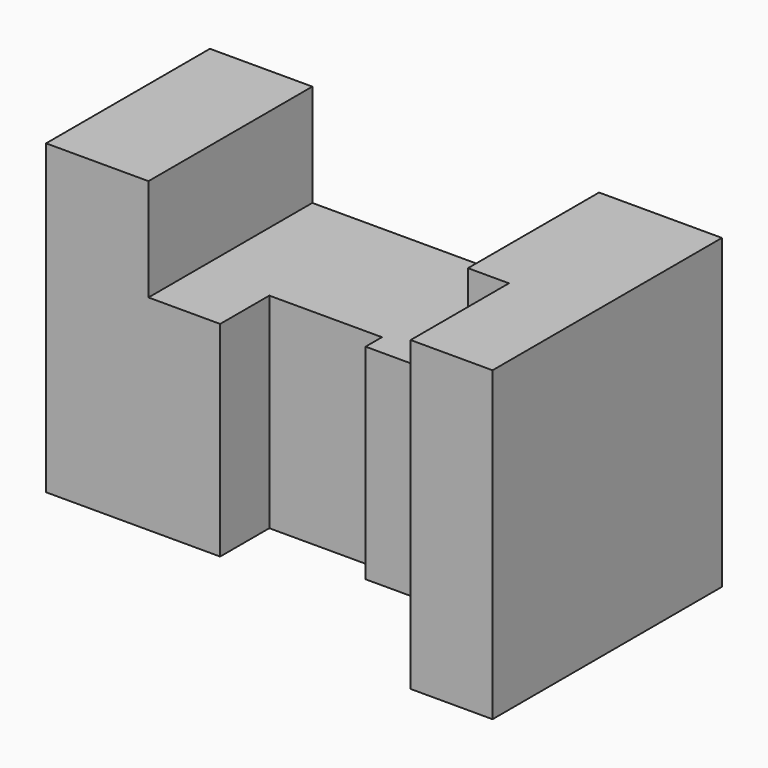
from build123d import *

# Parameters (mm, degrees)
F1_DEPTH = 75
F2_W     = 70
F2_H     = 25
F3_DEPTH = 70.001


with BuildPart() as f1:
    # F0 (on Top) → F1 (new body)
    with BuildSketch(Plane.XY):
        Polygon((125, 0), (125, 70), (0, 70), (0, 20), (42.5, 20), (42.5, 35), (70, 35), (70, 30), (105, 30), (105, 0), align=None)
    extrude(amount=F1_DEPTH)

    # F2 (on face) → F3 (cut, through all)
    with BuildSketch(Plane(origin=(0, 70, 0), x_dir=(-1, 0, 0), z_dir=(0, 1, 0))):
        with Locations((-60, 62.5)):
            Rectangle(F2_W, F2_H)
    extrude(amount=-F3_DEPTH, mode=Mode.SUBTRACT)


solid = f1.part
